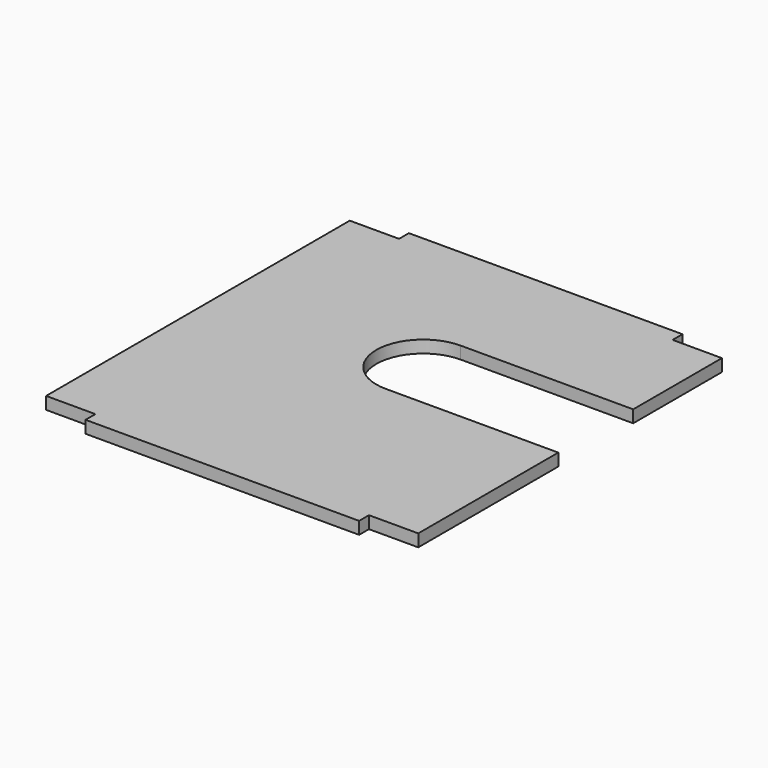
from build123d import *

# Parameters (mm, degrees)
PAD_DEPTH = 2.5


with BuildPart() as part:
    # Sketch → Pad (new body, symmetric)
    with BuildSketch(Plane.XY):
        with BuildLine():
            Line((-55.5, 82), (-55.5, 77))
            Line((-55.5, 77), (-75.5, 77))
            Line((-75.5, 77), (-75.5, -77))
            Line((-75.5, -77), (-55.5, -77))
            Line((-55.5, -77), (-55.5, -82))
            Line((-55.5, -82), (55.5, -82))
            Line((55.5, -82), (55.5, -77))
            Line((55.5, -77), (75.5, -77))
            Line((75.5, -77), (75.5, -6))
            Line((75.5, -6), (5.5, -6))
            ThreePointArc((5.5, 32), (-13.5, 13), (5.5, -6))
            Line((5.5, 32), (75.5, 32))
            Line((75.5, 32), (75.5, 77))
            Line((75.5, 77), (55.5, 77))
            Line((55.5, 77), (55.5, 82))
            Line((55.5, 82), (-55.5, 82))
        make_face()
    extrude(amount=PAD_DEPTH, both=True)


solid = part.part
